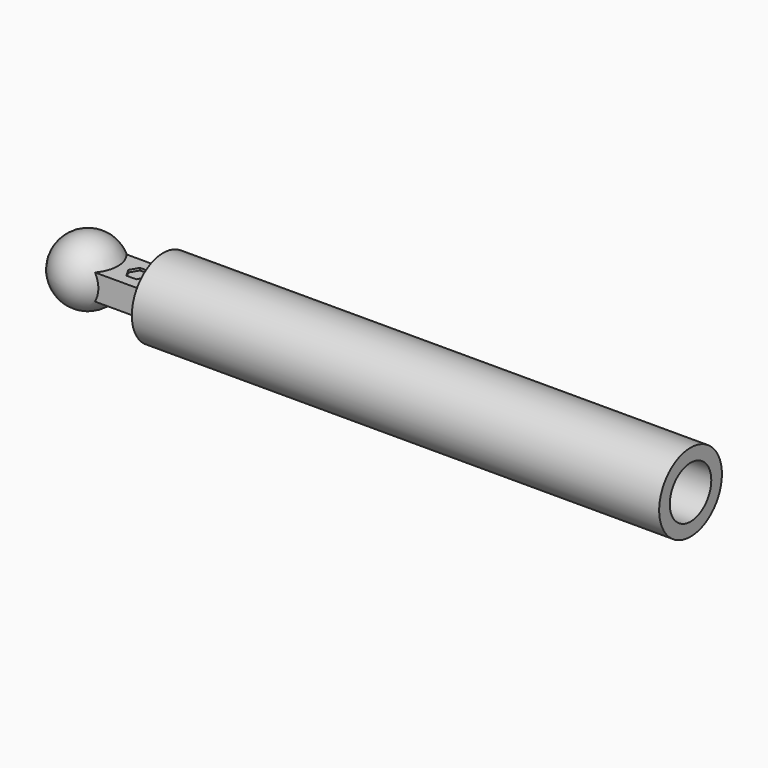
from build123d import *

# Parameters (mm, degrees)
PAD_DEPTH       = 0.245
POCKET_DEPTH    = 0.05
SKETCH004_R     = 0.75
PAD001_DEPTH    = 10.08525
SKETCH005_R     = 3
HOLE_DEPTH      = 26
SKETCH006_R     = 0.495763
POCKET001_DEPTH = 9.580987


with BuildPart() as part:
    # Sketch → Pad (new body, symmetric)
    with BuildSketch(Plane.XY):
        with BuildLine():
            Line((0, 0.375), (19.21, 0.375))
            ThreePointArc((19.21, -0.375), (19.585, 0), (19.21, 0.375))
            Line((19.21, -0.375), (0, -0.375))
            ThreePointArc((0, 0.375), (-0.375, 0), (0, -0.375))
        make_face()
    extrude(amount=PAD_DEPTH, both=True)

    # Sketch001 → Revolution (revolve)
    with BuildSketch(Plane.XY):
        with BuildLine():
            Line((0, 0.625), (0, 0))
            Line((0, 0), (0, -0.625))
            ThreePointArc((0, 0.625), (-0.625, 0), (0, -0.625))
        make_face()
    revolve(axis=Axis((0, 0, 0), (0, -1, 0)))

    # Sketch002 → Revolution001 (revolve)
    with BuildSketch(Plane.XY):
        with BuildLine():
            ThreePointArc((19.21, -0.625), (19.835, 0), (19.21, 0.625))
            Line((19.21, 0.625), (19.21, 0))
            Line((19.21, 0), (19.21, -0.625))
        make_face()
    revolve(axis=Axis((19.21, 0, 0), (0, -1, 0)))

    # Sketch003 (on DatumPlane) → Pocket (cut)
    with BuildSketch(Plane.XY.offset(0.25)):
        Polygon((1.05425, -0.16238), (1.148, 0), (1.05425, 0.16238), (0.86675, 0.16238), (0.773, 0), (0.86675, -0.16238), align=None)
    extrude(amount=-POCKET_DEPTH, mode=Mode.SUBTRACT)

    # Sketch004 (on DatumPlane) → Pad001 (join)
    with BuildSketch(Plane.YZ.offset(11.526)):
        Circle(SKETCH004_R)
    extrude(amount=-PAD001_DEPTH)

    # Sketch005 (on DatumPlane) → Hole (cut)
    with BuildSketch(Plane.YZ.offset(11.526)):
        Circle(SKETCH005_R)
    extrude(amount=HOLE_DEPTH, mode=Mode.SUBTRACT)

    # Sketch006 (on DatumPlane) → Pocket001 (cut)
    with BuildSketch(Plane.YZ.offset(11.526)):
        Circle(SKETCH006_R)
    extrude(amount=-POCKET001_DEPTH, mode=Mode.SUBTRACT)


solid = part.part
